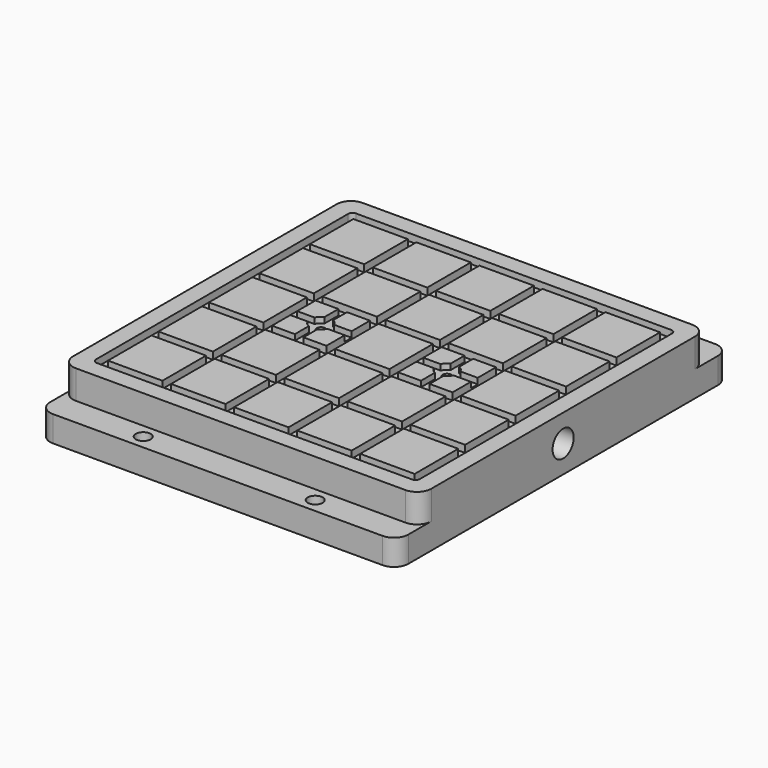
from build123d import *

# Parameters (mm, degrees)
F0_R      = 2.6
F1_DEPTH  = 9
F3_DEPTH  = 10
F4_R      = 2.5
F5_DEPTH  = 100
F4_R_2    = 4.6
F6_DEPTH  = 10
F8_W      = 19
F8_H      = 19
F9_DEPTH  = 2.5
F10_R     = 1.5
F11_DEPTH = 10
F13_DEPTH = 2
F14_R     = 3.75
F15_DEPTH = 2


with BuildPart() as f1:
    # F0 (on Top) → F1 (new body)
    with BuildSketch(Plane.XY):
        with BuildLine():
            Line((-57.5, -72.5), (57.5, -72.5))
            ThreePointArc((57.5, -72.5), (61.035534, -71.035534), (62.5, -67.5))
            Line((62.5, -67.5), (62.5, 67.5))
            ThreePointArc((62.5, 67.5), (61.035534, 71.035534), (57.5, 72.5))
            Line((57.5, 72.5), (-57.5, 72.5))
            ThreePointArc((-57.5, 72.5), (-61.035534, 71.035534), (-62.5, 67.5))
            Line((-62.5, 67.5), (-62.5, -67.5))
            ThreePointArc((-62.5, -67.5), (-61.035534, -71.035534), (-57.5, -72.5))
        make_face()
        with Locations((-30, -67.5)):
            Circle(F0_R, mode=Mode.SUBTRACT)
        with Locations((30, -67.5)):
            Circle(F0_R, mode=Mode.SUBTRACT)
        with Locations((-30, 67.5)):
            Circle(F0_R, mode=Mode.SUBTRACT)
        with Locations((30, 67.5)):
            Circle(F0_R, mode=Mode.SUBTRACT)
    extrude(amount=F1_DEPTH)

    # F2 (on face) → F3 (join)
    with BuildSketch(Plane.XY.offset(9)):
        with BuildLine():
            Line((-57.5, -62.5), (57.5, -62.5))
            ThreePointArc((57.5, -62.5), (61.035534, -61.035534), (62.5, -57.5))
            Line((62.5, -57.5), (62.5, 57.5))
            ThreePointArc((62.5, 57.5), (61.035534, 61.035534), (57.5, 62.5))
            Line((57.5, 62.5), (-57.5, 62.5))
            ThreePointArc((-57.5, 62.5), (-61.035534, 61.035534), (-62.5, 57.5))
            Line((-62.5, 57.5), (-62.5, -57.5))
            ThreePointArc((-62.5, -57.5), (-61.035534, -61.035534), (-57.5, -62.5))
        make_face()
    extrude(amount=F3_DEPTH)

    # F4 (on face) → F5 (cut)
    with BuildSketch(Plane.YZ.offset(62.5)):
        with Locations((0, 9.5)):
            Circle(F4_R)
    extrude(amount=-F5_DEPTH, mode=Mode.SUBTRACT)

    # F4 (on face) → F6 (cut)
    with BuildSketch(Plane.YZ.offset(62.5)):
        with Locations((0, 9.5)):
            Circle(F4_R_2)
        with Locations((0, 9.5)):
            Circle(F4_R, mode=Mode.SUBTRACT)
    extrude(amount=-F6_DEPTH, mode=Mode.SUBTRACT)

    # F8 (on face) → F9 (cut)
    with BuildSketch(Plane.XY.offset(19)):
        with BuildLine():
            Line((-55, -56.5), (55, -56.5))
            ThreePointArc((55, -56.5), (56.06066, -56.06066), (56.5, -55))
            Line((56.5, -55), (56.5, 55))
            ThreePointArc((56.5, 55), (56.06066, 56.06066), (55, 56.5))
            Line((55, 56.5), (-55, 56.5))
            ThreePointArc((-55, 56.5), (-56.06066, 56.06066), (-56.5, 55))
            Line((-56.5, 55), (-56.5, -55))
            ThreePointArc((-56.5, -55), (-56.06066, -56.06066), (-55, -56.5))
        make_face()
        with Locations((-44, -44)):
            Rectangle(F8_W, F8_H, mode=Mode.SUBTRACT)
        with Locations((-22, -44)):
            Rectangle(F8_W, F8_H, mode=Mode.SUBTRACT)
        with Locations((-44, -22)):
            Rectangle(F8_W, F8_H, mode=Mode.SUBTRACT)
        with Locations((-22, -22)):
            Rectangle(F8_W, F8_H, mode=Mode.SUBTRACT)
        with Locations((0, -44)):
            Rectangle(F8_W, F8_H, mode=Mode.SUBTRACT)
        with Locations((22, -44)):
            Rectangle(F8_W, F8_H, mode=Mode.SUBTRACT)
        with Locations((44, -44)):
            Rectangle(F8_W, F8_H, mode=Mode.SUBTRACT)
        with Locations((0, -22)):
            Rectangle(F8_W, F8_H, mode=Mode.SUBTRACT)
        with Locations((22, -22)):
            Rectangle(F8_W, F8_H, mode=Mode.SUBTRACT)
        with Locations((44, -22)):
            Rectangle(F8_W, F8_H, mode=Mode.SUBTRACT)
        with Locations((-44, 0)):
            Rectangle(F8_W, F8_H, mode=Mode.SUBTRACT)
        with Locations((-44, 22)):
            Rectangle(F8_W, F8_H, mode=Mode.SUBTRACT)
        with Locations((-22, 0)):
            Rectangle(F8_W, F8_H, mode=Mode.SUBTRACT)
        with Locations((-22, 22)):
            Rectangle(F8_W, F8_H, mode=Mode.SUBTRACT)
        with Locations((-44, 44)):
            Rectangle(F8_W, F8_H, mode=Mode.SUBTRACT)
        with Locations((-22, 44)):
            Rectangle(F8_W, F8_H, mode=Mode.SUBTRACT)
        Rectangle(F8_W, F8_H, mode=Mode.SUBTRACT)
        with Locations((22, 0)):
            Rectangle(F8_W, F8_H, mode=Mode.SUBTRACT)
        with Locations((0, 22)):
            Rectangle(F8_W, F8_H, mode=Mode.SUBTRACT)
        with Locations((22, 22)):
            Rectangle(F8_W, F8_H, mode=Mode.SUBTRACT)
        with Locations((44, 0)):
            Rectangle(F8_W, F8_H, mode=Mode.SUBTRACT)
        with Locations((44, 22)):
            Rectangle(F8_W, F8_H, mode=Mode.SUBTRACT)
        with Locations((0, 44)):
            Rectangle(F8_W, F8_H, mode=Mode.SUBTRACT)
        with Locations((22, 44)):
            Rectangle(F8_W, F8_H, mode=Mode.SUBTRACT)
        with Locations((44, 44)):
            Rectangle(F8_W, F8_H, mode=Mode.SUBTRACT)
    extrude(amount=-F9_DEPTH, mode=Mode.SUBTRACT)

    # F10 (on face) → F11 (cut)
    with BuildSketch(Plane.XY.offset(19)):
        with Locations((-22, 0)):
            Circle(F10_R)
        with Locations((22, 0)):
            Circle(F10_R)
    extrude(amount=-F11_DEPTH, mode=Mode.SUBTRACT)

    # F12 (on face) → F13 (cut)
    with BuildSketch(Plane.XY.offset(19)):
        with BuildLine():
            ThreePointArc((12.5, 1.5), (11, 0), (12.5, -1.5))
            Line((12.5, -1.5), (20.5, -1.5))
            Line((20.5, -1.5), (20.5, -9.5))
            ThreePointArc((20.5, -9.5), (22, -11), (23.5, -9.5))
            Line((23.5, -9.5), (23.5, -1.5))
            Line((23.5, -1.5), (31.5, -1.5))
            ThreePointArc((31.5, -1.5), (33, 0), (31.5, 1.5))
            Line((31.5, 1.5), (23.5, 1.5))
            Line((23.5, 1.5), (23.5, 9.5))
            ThreePointArc((23.5, 9.5), (22, 11), (20.5, 9.5))
            Line((20.5, 9.5), (20.5, 1.5))
            Line((20.5, 1.5), (12.5, 1.5))
        make_face()
        with BuildLine():
            ThreePointArc((-31.5, 1.5), (-33, 0), (-31.5, -1.5))
            Line((-31.5, -1.5), (-23.5, -1.5))
            Line((-23.5, -1.5), (-23.5, -9.5))
            ThreePointArc((-23.5, -9.5), (-22, -11), (-20.5, -9.5))
            Line((-20.5, -9.5), (-20.5, -1.5))
            Line((-20.5, -1.5), (-12.5, -1.5))
            ThreePointArc((-12.5, -1.5), (-11, 0), (-12.5, 1.5))
            Line((-12.5, 1.5), (-20.5, 1.5))
            Line((-20.5, 1.5), (-20.5, 9.5))
            ThreePointArc((-20.5, 9.5), (-22, 11), (-23.5, 9.5))
            Line((-23.5, 9.5), (-23.5, 1.5))
            Line((-23.5, 1.5), (-31.5, 1.5))
        make_face()
    extrude(amount=-F13_DEPTH, mode=Mode.SUBTRACT)

    # F14 (on face) → F15 (cut)
    with BuildSketch(Plane.XY.offset(19)):
        with Locations((-22, 0)):
            Circle(F14_R)
        with Locations((22, 0)):
            Circle(F14_R)
    extrude(amount=-F15_DEPTH, mode=Mode.SUBTRACT)


solid = f1.part
